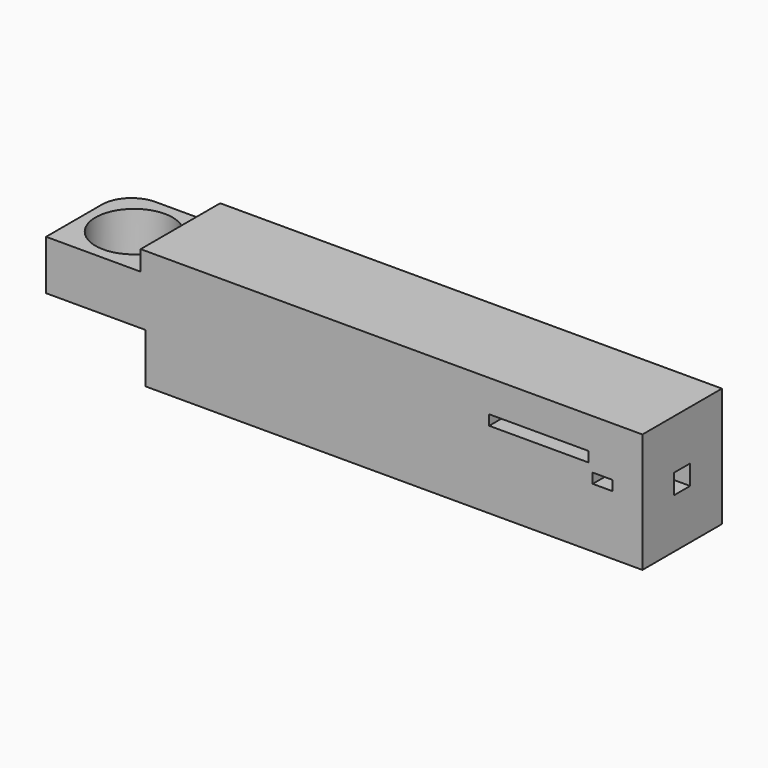
from build123d import *

# Parameters (mm, degrees)
F1_W      = 152.4
F1_H      = 25.4
F2_DEPTH  = 25.4
F3_R      = 9.8472712537
F4_DEPTH  = 25.401
F5_W      = 25.4
F5_H      = 12.7
F6_DEPTH  = 25.4
F7_W      = 25.4
F7_H      = 2.5977271069
F8_DEPTH  = 53.086
F9_W      = 128.2310737193
F9_H      = 25.4
F10_DEPTH = 5.08
F11_R     = 7.62
F12_W     = 5.08
F12_H     = 2.54
F13_DEPTH = 6.35508
F14_W     = 0.2449715817
F14_H     = 2.54
F15_DEPTH = 1.27
F14_W_2   = 0.2464826526
F16_DEPTH = 1.27
F17_W     = 5.08
F17_H     = 5.08
F18_DEPTH = 12.7
F19_W     = 5.08
F19_H     = 2.54
F20_DEPTH = 25.4


with BuildPart() as f2:
    # F1 (on face) → F2 (new body)
    with BuildSketch(Plane.XY):
        Rectangle(F1_W, F1_H)
    extrude(amount=F2_DEPTH)

    # F3 (on face) → F4 (cut, through all)
    with BuildSketch(Plane.XY):
        with Locations((-63.8753846288, 0)):
            Circle(F3_R)
    extrude(amount=F4_DEPTH, mode=Mode.SUBTRACT)

    # F5 (on face) → F6 (cut)
    with BuildSketch(Plane(origin=(-76.2, 0, 0), x_dir=(0, -1, 0), z_dir=(-1, 0, 0))):
        with Locations((0, 6.35)):
            Rectangle(F5_W, F5_H)
    extrude(amount=-F6_DEPTH, mode=Mode.SUBTRACT)

    # F7 (on face) → F8 (cut)
    with BuildSketch(Plane(origin=(0, 12.7, 0), x_dir=(-1, 0, 0), z_dir=(0, 1, 0))):
        with Locations((-49.7299730778, 20.9970995784)):
            Rectangle(F7_W, F7_H)
    extrude(amount=-F8_DEPTH, mode=Mode.SUBTRACT)

    # F9 (on face) → F10 (join)
    with BuildSketch(Plane.XY.offset(25.4)):
        with Locations((12.0844631404, 0)):
            Rectangle(F9_W, F9_H)
    extrude(amount=F10_DEPTH)

    # F11
    f11_edges = [f2.edges().sort_by_distance(p)[0] for p in [
        (-76.2, 12.7, 19.05),
    ]]
    fillet(f11_edges, radius=F11_R)

    # F12 (on face) → F13 (cut)
    with BuildSketch(Plane(origin=(-52.0310737193, 0, 0), x_dir=(0, -1, 0), z_dir=(-1, 0, 0))):
        with Locations((0, 26.67)):
            Rectangle(F12_W, F12_H)
    extrude(amount=-F13_DEPTH, mode=Mode.SUBTRACT)

    # F14 (on face) → F15 (join)
    with BuildSketch(Plane(origin=(-52.0310737193, 0, 0), x_dir=(0, -1, 0), z_dir=(-1, 0, 0))):
        with Locations((-2.4175142092, 26.67)):
            Rectangle(F14_W, F14_H)
    extrude(amount=-F15_DEPTH)

    # F14 (on face) → F16 (join)
    with BuildSketch(Plane(origin=(-52.0310737193, 0, 0), x_dir=(0, -1, 0), z_dir=(-1, 0, 0))):
        with Locations((2.4167586737, 26.67)):
            Rectangle(F14_W_2, F14_H)
    extrude(amount=-F16_DEPTH)

    # F17 (on face) → F18 (cut)
    with BuildSketch(Plane.YZ.offset(76.2)):
        with Locations((0, 15.24)):
            Rectangle(F17_W, F17_H)
    extrude(amount=-F18_DEPTH, mode=Mode.SUBTRACT)

    # F19 (on face) → F20 (cut)
    with BuildSketch(Plane(origin=(0, -2.54, 0), x_dir=(-1, 0, 0), z_dir=(0, 1, 0))):
        with Locations((-66.04, 16.51)):
            Rectangle(F19_W, F19_H)
    extrude(amount=-F20_DEPTH, mode=Mode.SUBTRACT)


solid = f2.part
